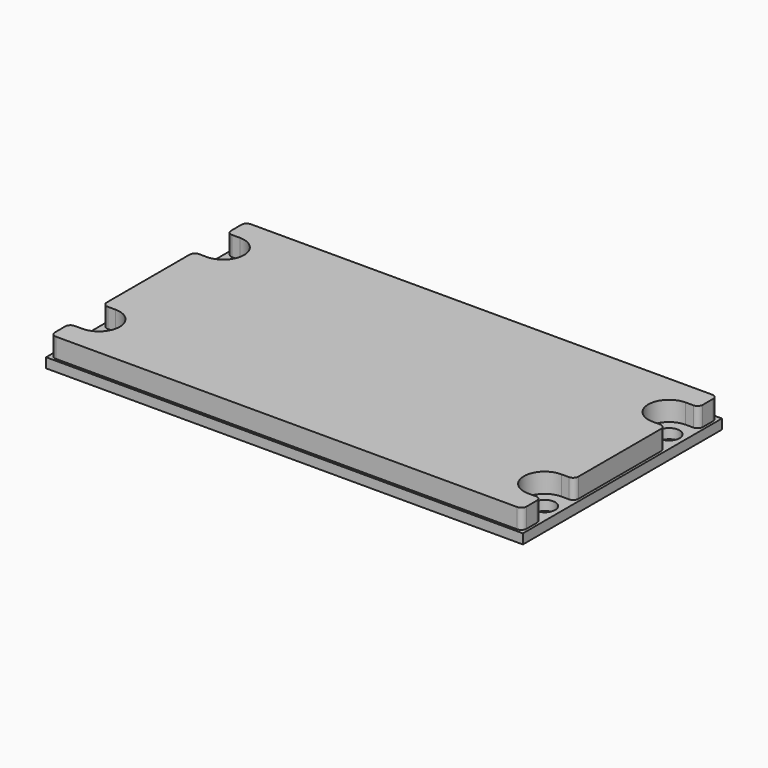
from build123d import *

# Parameters (mm, degrees)
F0_W     = 146.05
F0_H     = 76.2
F0_R     = 3.24
F1_DEPTH = 3
F2_DEPTH = 6
F3_R     = 1.588


with BuildPart() as f1:
    # F0 (on Top) → F1 (new body)
    with BuildSketch(Plane.XY):
        Rectangle(F0_W, F0_H)
        with Locations((-68.2625, -23.812)):
            Circle(F0_R, mode=Mode.SUBTRACT)
        with Locations((68.2625, -23.812)):
            Circle(F0_R, mode=Mode.SUBTRACT)
        with Locations((-68.2625, 23.812)):
            Circle(F0_R, mode=Mode.SUBTRACT)
        with BuildLine():
            Line((-72.225, 30.1625), (-72.225, 37.3))
            Line((-72.225, 37.3), (72.225, 37.3))
            Line((72.225, 37.3), (72.225, 30.1625))
            Line((72.225, 30.1625), (68.2625, 30.1625))
            ThreePointArc((68.2625, 30.1625), (61.912, 23.812), (68.2625, 17.4615))
            Line((68.2625, 17.4615), (72.225, 17.4615))
            Line((72.225, 17.4615), (72.225, -17.4615))
            Line((72.225, -17.4615), (68.2625, -17.4615))
            ThreePointArc((68.2625, -17.4615), (61.912, -23.812), (68.2625, -30.1625))
            Line((68.2625, -30.1625), (72.225, -30.1625))
            Line((72.225, -30.1625), (72.225, -37.3))
            Line((72.225, -37.3), (-72.225, -37.3))
            Line((-72.225, -37.3), (-72.225, -30.1625))
            Line((-72.225, -30.1625), (-68.2625, -30.1625))
            ThreePointArc((-68.2625, -30.1625), (-61.912, -23.812), (-68.2625, -17.4615))
            Line((-68.2625, -17.4615), (-72.225, -17.4615))
            Line((-72.225, -17.4615), (-72.225, 17.4615))
            Line((-72.225, 17.4615), (-68.2625, 17.4615))
            ThreePointArc((-68.2625, 17.4615), (-61.912, 23.812), (-68.2625, 30.1625))
            Line((-68.2625, 30.1625), (-72.225, 30.1625))
        make_face(mode=Mode.SUBTRACT)
        with Locations((68.2625, 23.812)):
            Circle(F0_R, mode=Mode.SUBTRACT)
        with BuildLine():
            Line((72.225, 37.3), (-72.225, 37.3))
            Line((-72.225, 37.3), (-72.225, 30.1625))
            Line((-72.225, 30.1625), (-68.2625, 30.1625))
            ThreePointArc((-68.2625, 30.1625), (-61.912, 23.812), (-68.2625, 17.4615))
            Line((-68.2625, 17.4615), (-72.225, 17.4615))
            Line((-72.225, 17.4615), (-72.225, -17.4615))
            Line((-72.225, -17.4615), (-68.2625, -17.4615))
            ThreePointArc((-68.2625, -17.4615), (-61.912, -23.812), (-68.2625, -30.1625))
            Line((-68.2625, -30.1625), (-72.225, -30.1625))
            Line((-72.225, -30.1625), (-72.225, -37.3))
            Line((-72.225, -37.3), (72.225, -37.3))
            Line((72.225, -37.3), (72.225, -30.1625))
            Line((72.225, -30.1625), (68.2625, -30.1625))
            ThreePointArc((68.2625, -30.1625), (61.912, -23.812), (68.2625, -17.4615))
            Line((68.2625, -17.4615), (72.225, -17.4615))
            Line((72.225, -17.4615), (72.225, 17.4615))
            Line((72.225, 17.4615), (68.2625, 17.4615))
            ThreePointArc((68.2625, 17.4615), (61.912, 23.812), (68.2625, 30.1625))
            Line((68.2625, 30.1625), (72.225, 30.1625))
            Line((72.225, 30.1625), (72.225, 37.3))
        make_face()
    extrude(amount=-F1_DEPTH)


with BuildPart() as f2:
    # F0 (on Top) → F2 (new body)
    with BuildSketch(Plane.XY):
        with BuildLine():
            Line((72.225, 37.3), (-72.225, 37.3))
            Line((-72.225, 37.3), (-72.225, 30.1625))
            Line((-72.225, 30.1625), (-68.2625, 30.1625))
            ThreePointArc((-68.2625, 30.1625), (-61.912, 23.812), (-68.2625, 17.4615))
            Line((-68.2625, 17.4615), (-72.225, 17.4615))
            Line((-72.225, 17.4615), (-72.225, -17.4615))
            Line((-72.225, -17.4615), (-68.2625, -17.4615))
            ThreePointArc((-68.2625, -17.4615), (-61.912, -23.812), (-68.2625, -30.1625))
            Line((-68.2625, -30.1625), (-72.225, -30.1625))
            Line((-72.225, -30.1625), (-72.225, -37.3))
            Line((-72.225, -37.3), (72.225, -37.3))
            Line((72.225, -37.3), (72.225, -30.1625))
            Line((72.225, -30.1625), (68.2625, -30.1625))
            ThreePointArc((68.2625, -30.1625), (61.912, -23.812), (68.2625, -17.4615))
            Line((68.2625, -17.4615), (72.225, -17.4615))
            Line((72.225, -17.4615), (72.225, 17.4615))
            Line((72.225, 17.4615), (68.2625, 17.4615))
            ThreePointArc((68.2625, 17.4615), (61.912, 23.812), (68.2625, 30.1625))
            Line((68.2625, 30.1625), (72.225, 30.1625))
            Line((72.225, 30.1625), (72.225, 37.3))
        make_face()
    extrude(amount=F2_DEPTH)

    # F3
    f3_edges = [f2.edges().sort_by_distance(p)[0] for p in [
        (-72.225, 37.3, 3),
        (-72.225, 30.1625, 3),
        (-72.225, 17.4615, 3),
        (-72.225, -17.4615, 3),
        (-72.225, -30.1625, 3),
        (-72.225, -37.3, 3),
        (72.225, 37.3, 3),
        (72.225, 30.1625, 3),
        (72.225, 17.4615, 3),
        (72.225, -17.4615, 3),
        (72.225, -30.1625, 3),
        (72.225, -37.3, 3),
    ]]
    fillet(f3_edges, radius=F3_R)


solid = Compound([f1.part, f2.part])
